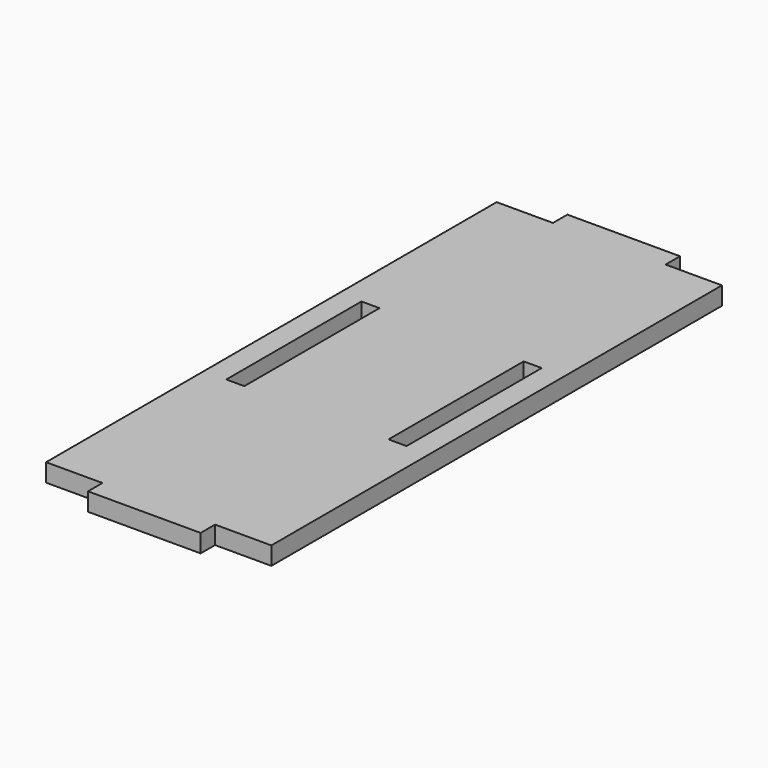
from build123d import *

# Parameters (mm, degrees)
F0_W     = 25.4
F0_H     = 4.064
F0_W_2   = 4.064
F0_H_2   = 38.1
F1_DEPTH = 4.064


with BuildPart() as f1:
    # F0 (on Top) → F1 (new body)
    with BuildSketch(Plane.XY):
        with Locations((0, 61.468)):
            Rectangle(F0_W, F0_H)
        with Locations((0, -65.532)):
            Rectangle(F0_W, F0_H)
        with Locations((0, 65.532)):
            Rectangle(F0_W, F0_H)
        Polygon((25.4, -63.5), (25.4, 63.5), (12.7, 63.5), (12.7, 59.436), (-12.7, 59.436), (-12.7, 63.5), (-25.4, 63.5), (-25.4, -63.5), (-12.7, -63.5), (-12.7, -59.436), (12.7, -59.436), (12.7, -63.5), align=None)
        with Locations((-18.288, 0)):
            Rectangle(F0_W_2, F0_H_2, mode=Mode.SUBTRACT)
        with Locations((18.288, 0)):
            Rectangle(F0_W_2, F0_H_2, mode=Mode.SUBTRACT)
        with Locations((0, -61.468)):
            Rectangle(F0_W, F0_H)
    extrude(amount=F1_DEPTH)


solid = f1.part
